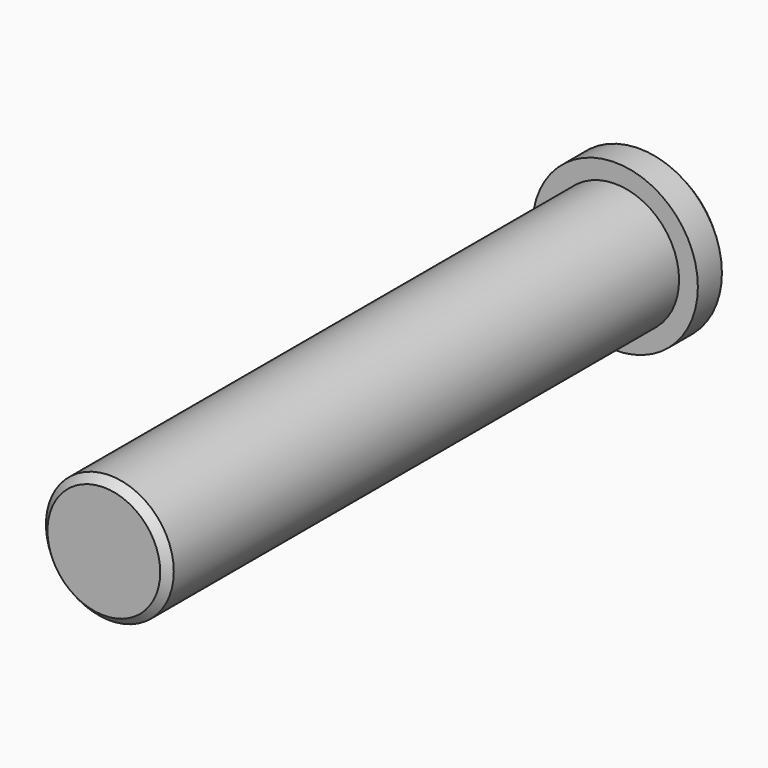
from build123d import *

# Parameters (mm, degrees)
F0_R     = 11
F1_DEPTH = 5
F2_R     = 8.5
F3_DEPTH = 85
F4_SIZE  = 1
F5_SIZE  = 1


with BuildPart() as f1:
    # F0 (on Front) → F1 (new body)
    with BuildSketch(Plane.XZ):
        Circle(F0_R)
    extrude(amount=F1_DEPTH)

    # F2 (on face) → F3 (join)
    with BuildSketch(Plane.XZ.offset(5)):
        Circle(F2_R)
    extrude(amount=F3_DEPTH)

    # F4
    f4_edges = [f1.edges().sort_by_distance(p)[0] for p in [
        (-11, 0, 0),
    ]]
    chamfer(f4_edges, length=F4_SIZE)

    # F5
    f5_edges = [f1.edges().sort_by_distance(p)[0] for p in [
        (-8.5, -90, 0),
    ]]
    chamfer(f5_edges, length=F5_SIZE)


solid = f1.part
